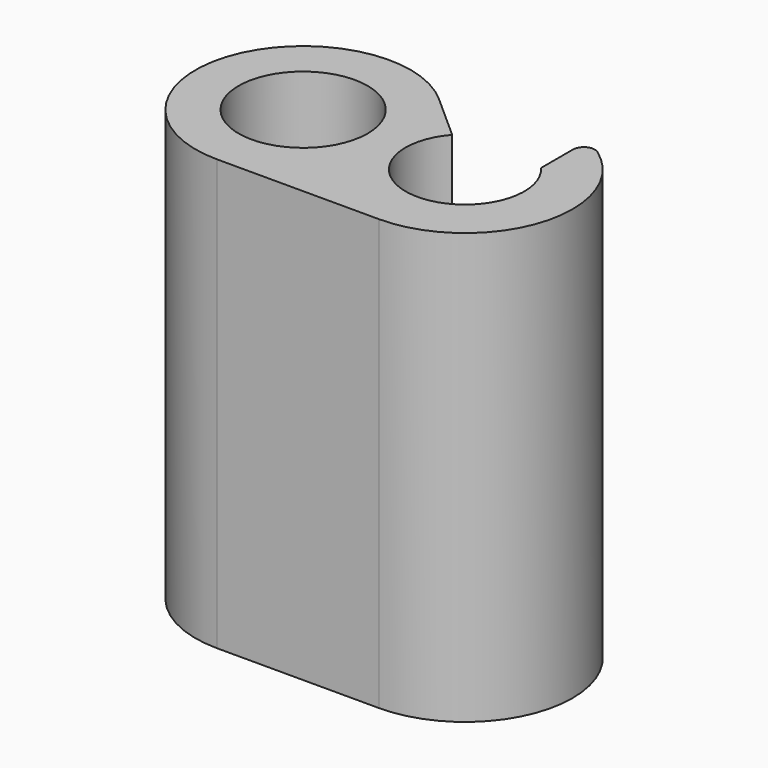
from build123d import *

# Parameters (mm, degrees)
F0_R     = 1.905
F1_DEPTH = 12.7


with BuildPart() as f1:
    # F0 (on Top) → F1 (new body)
    with BuildSketch(Plane.XY):
        with BuildLine():
            Line((3.466116, 1.165293), (2.111037, 2.371528))
            ThreePointArc((2.111037, 2.371528), (-2.967341, 1.129385), (0, -3.175))
            Line((0, -3.175), (4.7752, -3.175))
            ThreePointArc((4.7752, -3.175), (7.801505, -0.960261), (6.605779, 2.594148))
            ThreePointArc((6.605779, 2.594148), (6.270566, 2.61704), (6.096, 2.329955))
            Line((6.096, 2.329955), (6.096, 1.151996))
            ThreePointArc((6.096, 1.151996), (4.766339, -1.752578), (3.466116, 1.165293))
        make_face()
        Circle(F0_R, mode=Mode.SUBTRACT)
    extrude(amount=F1_DEPTH)


solid = f1.part
